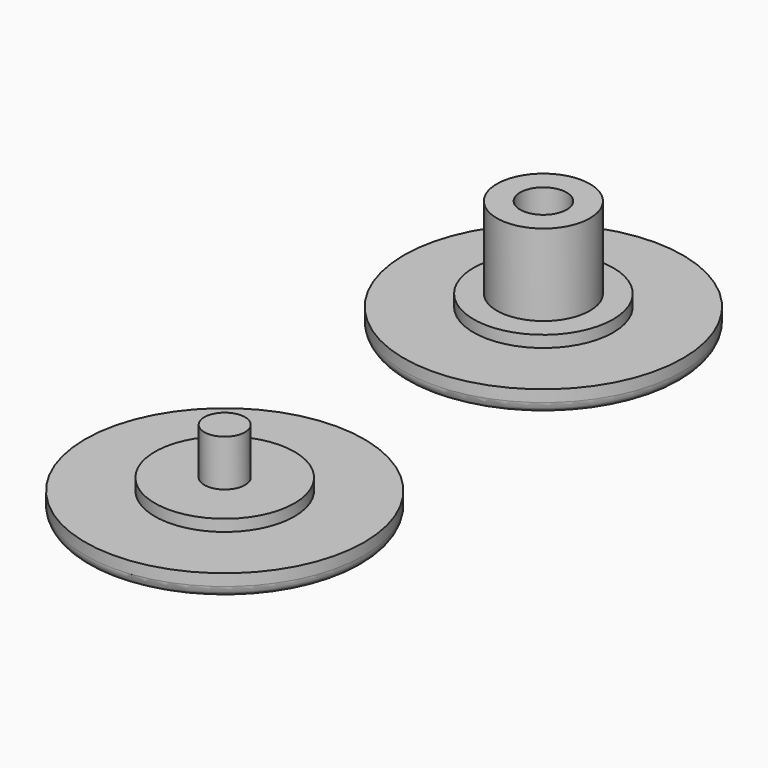
from build123d import *

# Parameters (mm, degrees)
F0_R          = 12
F0_R_2        = 6
F0_R_3        = 4
F0_R_4        = 2
F1_DEPTH      = 2
F2_DEPTH      = 1
F3_DEPTH      = 8
F4_R          = 1
F5_DEPTH      = 2
F0_R_5        = 1.75
F6_DEPTH      = 1
F6_DEPTH_BACK = 2
F7_DEPTH      = 5
F7_DEPTH_BACK = 2
F8_DEPTH      = 2
F9_R          = 1


with BuildPart() as f1:
    # F0 (on Top) → F1 (new body)
    with BuildSketch(Plane.XY):
        Circle(F0_R)
        Circle(F0_R_2, mode=Mode.SUBTRACT)
        Circle(F0_R_2)
        Circle(F0_R_3, mode=Mode.SUBTRACT)
        Circle(F0_R_3)
        Circle(F0_R_4, mode=Mode.SUBTRACT)
    extrude(amount=-F1_DEPTH)

    # F0 (on Top) → F2 (join)
    with BuildSketch(Plane.XY):
        Circle(F0_R_2)
        Circle(F0_R_3, mode=Mode.SUBTRACT)
        Circle(F0_R_3)
        Circle(F0_R_4, mode=Mode.SUBTRACT)
    extrude(amount=F2_DEPTH)

    # F0 (on Top) → F3 (join)
    with BuildSketch(Plane.XY):
        Circle(F0_R_3)
        Circle(F0_R_4, mode=Mode.SUBTRACT)
    extrude(amount=F3_DEPTH)

    # F4
    f4_edges = [f1.edges().sort_by_distance(p)[0] for p in [
        (-12, 0, -2),
    ]]
    fillet(f4_edges, radius=F4_R)

    # F0 (on Top) → F8 (join)
    with BuildSketch(Plane.XY):
        Circle(F0_R_4)
    extrude(amount=-F8_DEPTH)


with BuildPart() as f5:
    # F0 (on Top) → F5 (new body)
    with BuildSketch(Plane.XY):
        with Locations((0, -34.25134)):
            Circle(F0_R)
        with Locations((0, -34.25134)):
            Circle(F0_R_2, mode=Mode.SUBTRACT)
    extrude(amount=-F5_DEPTH)

    # F0 (on Top) → F6 (join, two sides)
    with BuildSketch(Plane.XY) as f6_sk:
        with Locations((0, -34.25134)):
            Circle(F0_R_2)
        with Locations((0, -34.25134)):
            Circle(F0_R_5, mode=Mode.SUBTRACT)
    extrude(amount=F6_DEPTH)
    extrude(f6_sk.sketch, amount=-F6_DEPTH_BACK)

    # F0 (on Top) → F7 (join, two sides)
    with BuildSketch(Plane.XY) as f7_sk:
        with Locations((0, -34.25134)):
            Circle(F0_R_5)
    extrude(amount=F7_DEPTH)
    extrude(f7_sk.sketch, amount=-F7_DEPTH_BACK)

    # F9
    f9_edges = [f5.edges().sort_by_distance(p)[0] for p in [
        (-12, -34.25134, -2),
    ]]
    fillet(f9_edges, radius=F9_R)


solid = Compound([f1.part, f5.part])
